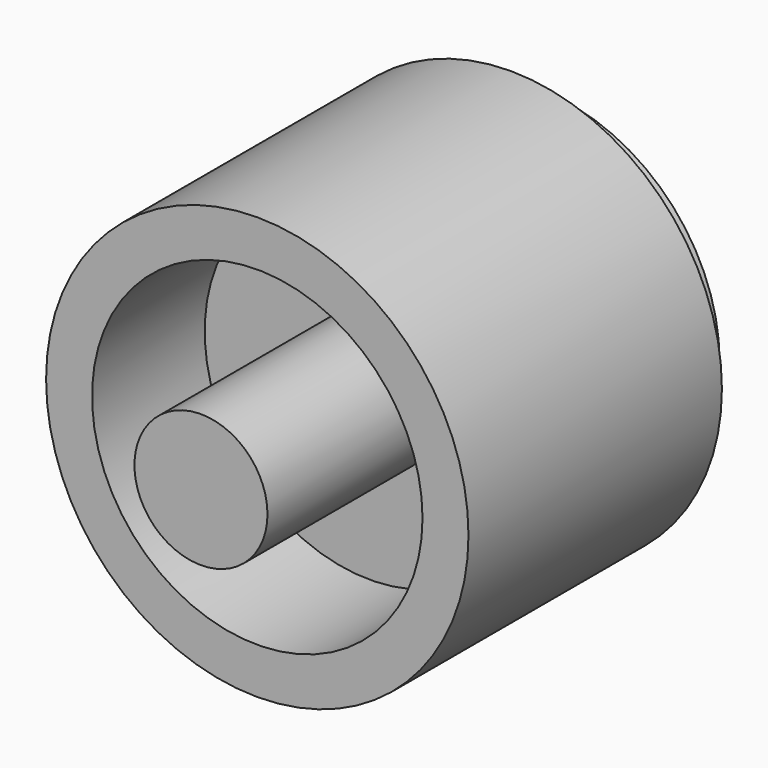
from build123d import *

# Parameters (mm, degrees)
F0_R     = 9.525
F1_DEPTH = 14.2875
F2_R     = 8.150668
F3_DEPTH = 1.5875
F4_R     = 7.451833
F5_DEPTH = 6.35
F6_R     = 3
F7_DEPTH = 9.525


with BuildPart() as f1:
    # F0 (on Front) → F1 (new body)
    with BuildSketch(Plane.XZ):
        Circle(F0_R)
    extrude(amount=F1_DEPTH)

    # F2 (on face) → F3 (join)
    with BuildSketch(Plane(origin=(0, 0, 0), x_dir=(-1, 0, 0), z_dir=(0, 1, 0))):
        Circle(F2_R)
    extrude(amount=F3_DEPTH)

    # F4 (on face) → F5 (cut)
    with BuildSketch(Plane.XZ.offset(14.2875)):
        Circle(F4_R)
    extrude(amount=-F5_DEPTH, mode=Mode.SUBTRACT)

    # F6 (on face) → F7 (join)
    with BuildSketch(Plane.XZ.offset(7.9375)):
        Circle(F6_R)
    extrude(amount=F7_DEPTH)


solid = f1.part
